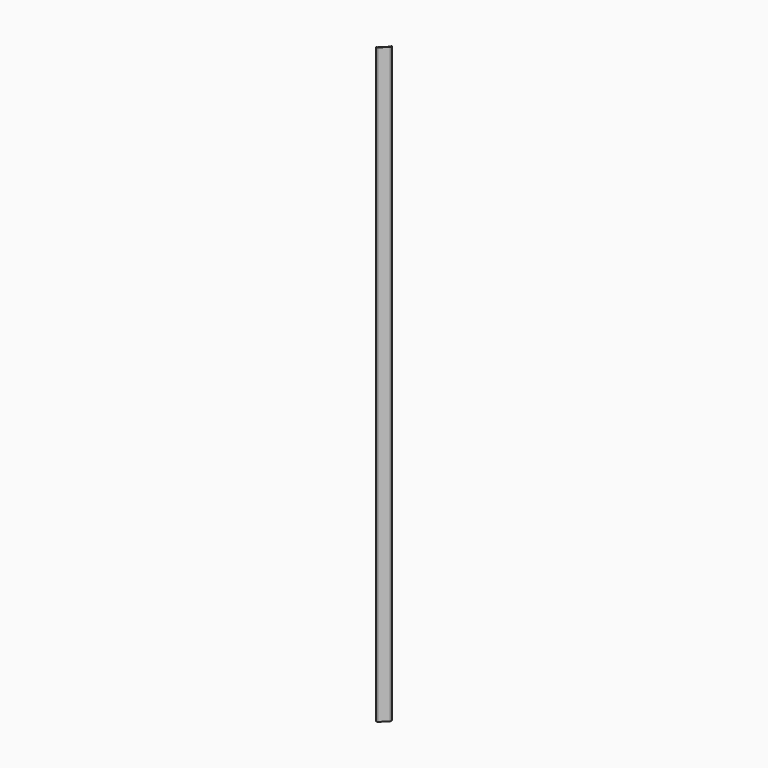
from build123d import *

# Parameters (mm, degrees)
F1_DEPTH = 20
F3_DEPTH = 2635
F5_DEPTH = 20
F6_R     = 5


with BuildPart() as f1:
    # F0 (on Top) → F1 (new body)
    with BuildSketch(Plane.XY):
        Polygon((-19.75, -17.750001), (-19.75, -19.75), (-13.75, -19.75), (19.75, 13.75), (19.75, 19.75), (17.750001, 19.75), (17.750001, 14.578427), (-14.578427, -17.750001), align=None)
    extrude(amount=F1_DEPTH)

    # F2 (on face) → F3 (join)
    with BuildSketch(Plane.XY.offset(20)):
        Polygon((-19.75, -19.75), (-13.75, -19.75), (19.75, 13.75), (19.75, 19.75), (11.25, 19.75), (11.25, 23.75), (7.25, 27.75), (7.25, 24.921573), (9.25, 22.921573), (9.25, 19.75), (9.25, 17.750001), (17.750001, 17.750001), (17.750001, 14.578427), (14.335787, 11.164213), (-11.164213, -14.335787), (-14.578427, -17.750001), (-17.750001, -17.750001), (-17.750001, -9.25), (-19.75, -9.25), (-22.921573, -9.25), (-24.921573, -7.25), (-27.75, -7.25), (-23.75, -11.25), (-19.75, -11.25), align=None)
    extrude(amount=F3_DEPTH)

    # F4 (on face) → F5 (join)
    with BuildSketch(Plane.XY.offset(2655)):
        Polygon((19.75, 13.75), (19.75, 19.75), (17.750001, 19.75), (17.750001, 14.578427), (-14.578427, -17.750001), (-19.75, -17.750001), (-19.75, -19.75), (-13.75, -19.75), align=None)
    extrude(amount=F5_DEPTH)

    # F6
    f6_edges = [f1.edges().sort_by_distance(p)[0] for p in [
        (19.75, 13.75, 1337.5),
        (-13.75, -19.75, 1337.5),
    ]]
    fillet(f6_edges, radius=F6_R)


solid = f1.part
